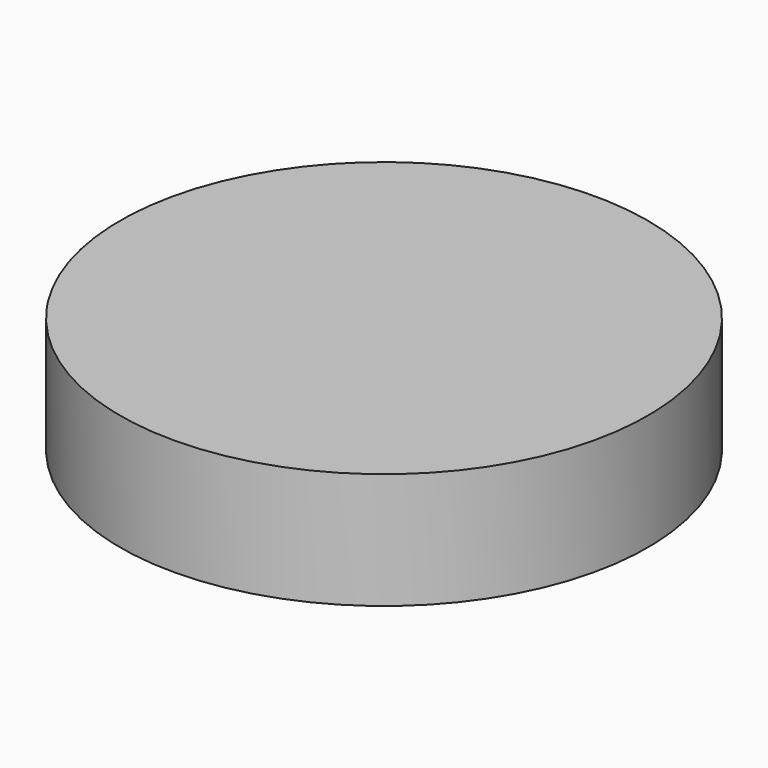
from build123d import *

# Parameters (mm, degrees)
F1_DEPTH = 25


with BuildPart() as f1:
    # F0 (on Top) → F1 (new body)
    with BuildSketch(Plane.XY):
        with BuildLine():
            ThreePointArc((34.4421628101, -45.2259253058), (50.9391812227, -25.2358220624), (56.8475760151, 0))
            ThreePointArc((56.8475760151, 0), (54.5964009484, 15.8391888138), (48.0211696892, 30.4239077122))
            Line((48.0211696892, 30.4239077122), (47.752983584, 29.4404234737))
            Line((47.752983584, 29.4404234737), (41.9086931268, -3.3428163471))
            Line((41.9086931268, -3.3428163471), (34.4421628101, -45.2259253058))
        make_face()
        with BuildLine():
            Line((47.752983584, 29.4404234737), (48.0211696892, 30.4239077122))
            ThreePointArc((48.0211696892, 30.4239077122), (47.9804360773, 30.4881067407), (47.9396166384, 30.5522512324))
            Line((47.9396166384, 30.5522512324), (46.2772846222, 29.4735741736))
            Line((46.2772846222, 29.4735741736), (43.115368513, 27.4597790745))
            Line((43.115368513, 27.4597790745), (37.8289818764, 4.7783735208))
            Line((37.8289818764, 4.7783735208), (19.0379463026, 12.1250917603))
            Line((19.0379463026, 12.1250917603), (16.4869613945, -10.5114309117))
            Line((16.4869613945, -10.5114309117), (-11.5443496034, -7.352489393))
            Line((-11.5443496034, -7.352489393), (-11.5443496034, -25.9417498456))
            Line((-11.5443496034, -25.9417498456), (-40.7318682875, -25.9417498456))
            Line((-40.7318682875, -25.9417498456), (-47.9486595265, -30.5380573778))
            Line((-47.9486595265, -30.5380573778), (-46.6996306402, -32.4159127108))
            Line((-46.6996306402, -32.4159127108), (-12.2733481025, -37.8508568272))
            Line((-12.2733481025, -37.8508568272), (41.9086931268, -3.3428163471))
            Line((41.9086931268, -3.3428163471), (47.752983584, 29.4404234737))
        make_face()
        with BuildLine():
            ThreePointArc((-46.6996306402, -32.4159127108), (-8.8648454624, -56.1521274194), (34.4421628101, -45.2259253058))
            Line((34.4421628101, -45.2259253058), (-12.2733481025, -37.8508568272))
            Line((-12.2733481025, -37.8508568272), (-46.6996306402, -32.4159127108))
        make_face()
        Polygon((-12.2733481025, -37.8508568272), (34.4421628101, -45.2259253058), (41.9086931268, -3.3428163471), align=None)
        with BuildLine():
            Line((46.2772846222, 29.4735741736), (47.9396166384, 30.5522512324))
            ThreePointArc((47.9396166384, 30.5522512324), (-30.5451546397, 47.9441386077), (-47.9486595265, -30.5380573778))
            Line((-47.9486595265, -30.5380573778), (-40.7318682875, -25.9417498456))
            Line((-40.7318682875, -25.9417498456), (-11.5443496034, -7.352489393))
            Line((-11.5443496034, -7.352489393), (0, 0))
            Line((0, 0), (19.0379463026, 12.1250917603))
            Line((19.0379463026, 12.1250917603), (43.115368513, 27.4597790745))
            Line((43.115368513, 27.4597790745), (46.2772846222, 29.4735741736))
        make_face()
        with BuildLine():
            ThreePointArc((-26.8048855143, 14.4364913875), (-25.4860998629, 11.0898762714), (-25.0371820332, 7.5209126808))
            ThreePointArc((-25.0371820332, 7.5209126808), (-52.4820836578, 1.3716192425), (-30.2849620032, 18.6436841226))
            Line((-30.2849620032, 18.6436841226), (-5.761257398, 26.9156774244))
            ThreePointArc((-5.761257398, 26.9156774244), (-0.1731727723, 52.3962711758), (21.4218145841, 37.7626158297))
            ThreePointArc((21.4218145841, 37.7626158297), (14.581504427, 24.7719418794), (0, 23.06104113))
            Line((0, 23.06104113), (-26.8048855143, 14.4364913875))
        make_face(mode=Mode.SUBTRACT)
        with BuildLine():
            ThreePointArc((-47.9486595265, -30.5380573778), (-47.3334584943, -31.4831797277), (-46.6996306402, -32.4159127108))
            Line((-46.6996306402, -32.4159127108), (-47.9486595265, -30.5380573778))
        make_face()
        with BuildLine():
            ThreePointArc((-30.2849620032, 18.6436841226), (-52.4820836578, 1.3716192425), (-25.0371820332, 7.5209126808))
            ThreePointArc((-25.0371820332, 7.5209126808), (-25.4860998629, 11.0898762714), (-26.8048855143, 14.4364913875))
            ThreePointArc((-26.8048855143, 14.4364913875), (-28.3438578322, 16.7064040727), (-30.2849620032, 18.6436841226))
        make_face()
        with BuildLine():
            ThreePointArc((-5.761257398, 26.9156774244), (-3.0952418564, 24.6675918827), (0, 23.06104113))
            ThreePointArc((0, 23.06104113), (14.581504427, 24.7719418794), (21.4218145841, 37.7626158297))
            ThreePointArc((21.4218145841, 37.7626158297), (-0.1731727723, 52.3962711758), (-5.761257398, 26.9156774244))
        make_face()
        with BuildLine():
            ThreePointArc((-30.2849620032, 18.6436841226), (-28.3438578322, 16.7064040727), (-26.8048855143, 14.4364913875))
            Line((-26.8048855143, 14.4364913875), (0, 23.06104113))
            ThreePointArc((0, 23.06104113), (-3.0952418564, 24.6675918827), (-5.761257398, 26.9156774244))
            Line((-5.761257398, 26.9156774244), (-30.2849620032, 18.6436841226))
        make_face()
        Polygon((-11.5443496034, -7.352489393), (-40.7318682875, -25.9417498456), (-11.5443496034, -25.9417498456), align=None)
        Polygon((0, 0), (-11.5443496034, -7.352489393), (16.4869613945, -10.5114309117), (19.0379463026, 12.1250917603), align=None)
        Polygon((37.8289818764, 4.7783735208), (43.115368513, 27.4597790745), (19.0379463026, 12.1250917603), align=None)
    extrude(amount=F1_DEPTH)


solid = f1.part
